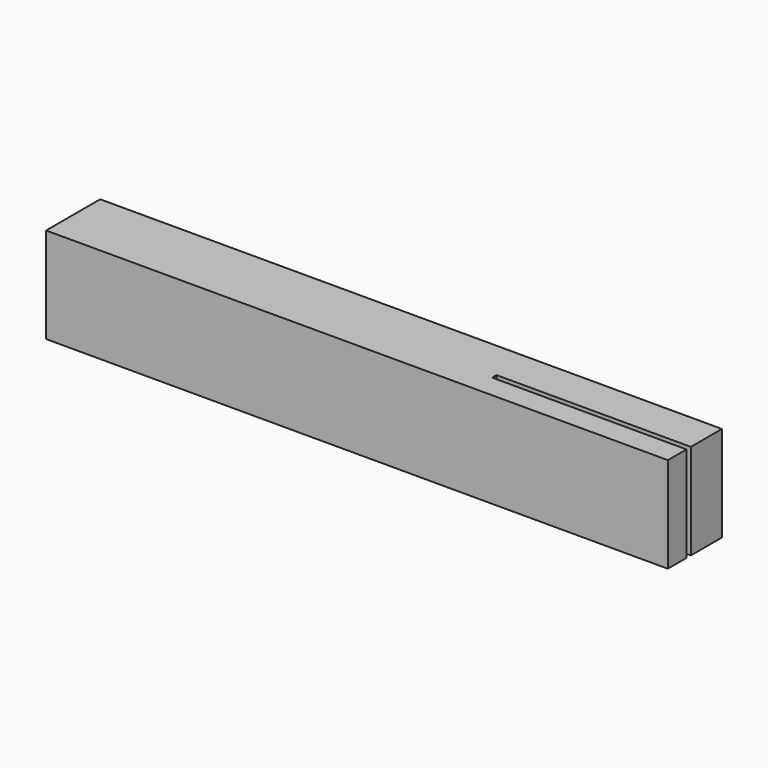
from build123d import *

# Parameters (mm, degrees)
F1_DEPTH = 12.3
F2_ANGLE = 90


with BuildPart() as f1:
    # F0 (on Front) → F1 (new body)
    with BuildSketch(Plane.XZ):
        Polygon((-56.354076, 8.7), (-56.354076, 0), (23.645924, 0), (23.645924, 3), (23.045924, 3), (13.685613, 3), (13.085613, 3), (4.643187, 3), (4.043187, 3), (-1.354076, 3), (-1.354076, 3.7), (4.043187, 3.7), (4.643187, 3.7), (13.085613, 3.7), (13.685613, 3.7), (23.045924, 3.7), (23.645924, 3.7), (23.645924, 8.7), (-6.354076, 8.7), align=None)
    extrude(amount=F1_DEPTH)


with BuildPart() as f1_1:
    # F2: moved
    add(f1.part.rotate(Axis((-16.354076, -12.3, 0), (-1, 0, 0)), F2_ANGLE))


solid = f1_1.part
